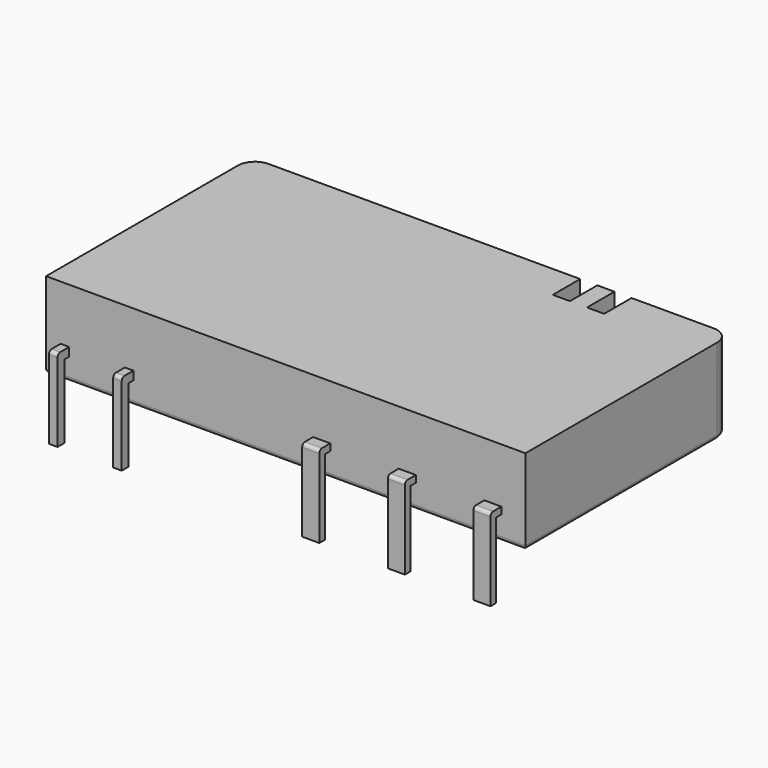
from build123d import *

# Parameters (mm, degrees)
SKETCH003_W    = 0.5
SKETCH003_H    = 0.5
SKETCH003_W_2  = 1
SKETCH003_H_2  = 0.4
PAD002_DEPTH   = 1
SKETCH001_W    = 28
SKETCH001_H    = 5
PAD001_DEPTH   = 15
SKETCH002_W    = 1
SKETCH002_H    = 2
POCKET_DEPTH   = 2
CHAMFER_SIZE   = 1.99
FILLET_R       = 1
FILLET001_R    = 0.25
SKETCH_W       = 0.5
SKETCH_H       = 0.5
SKETCH_W_2     = 1
SKETCH_H_2     = 0.4
PAD_DEPTH      = 1.3
PAD_DEPTH_BACK = 3.5
FILLET003_R    = 0.2


with BuildPart() as pad002:
    # Sketch003 → Pad002 (new body)
    with BuildSketch(Plane(origin=(-3.75, 1, 1.6), x_dir=(1, 0, 0), z_dir=(0, -1, 0))):
        with Locations((0, -0.05)):
            Rectangle(SKETCH003_W, SKETCH003_H)
        with Locations((3.75, -0.05)):
            Rectangle(SKETCH003_W, SKETCH003_H)
        with Locations((15, 0)):
            Rectangle(SKETCH003_W_2, SKETCH003_H_2)
        with Locations((20, 0)):
            Rectangle(SKETCH003_W_2, SKETCH003_H_2)
        with Locations((25, 0)):
            Rectangle(SKETCH003_W_2, SKETCH003_H_2)
    extrude(amount=PAD002_DEPTH)


with BuildPart() as fillet001:
    # Sketch001 → Pad001 (new body)
    with BuildSketch(Plane(origin=(-3.75, 0.6, 1.3), x_dir=(1, 0, 0), z_dir=(0, 1, 0))):
        with Locations((12.9, -1.2)):
            Rectangle(SKETCH001_W, SKETCH001_H)
    extrude(amount=PAD001_DEPTH)

    # Sketch002 → Pocket (cut)
    with BuildSketch(Plane(origin=(-3.75, 15.6, 1.3), x_dir=(1, 0, 0), z_dir=(0, 1, 0))):
        with Locations((18.6, -2.7)):
            Rectangle(SKETCH002_W, SKETCH002_H)
        with Locations((20.6, -2.7)):
            Rectangle(SKETCH002_W, SKETCH002_H)
    extrude(amount=-POCKET_DEPTH, mode=Mode.SUBTRACT)

    # Chamfer
    chamfer_edges = [fillet001.edges().sort_by_distance(p)[0] for p in [
        (16.85, 13.6, 3),
        (14.85, 13.6, 3),
    ]]
    chamfer(chamfer_edges, length=CHAMFER_SIZE)

    # Fillet
    fillet_edges = [fillet001.edges().sort_by_distance(p)[0] for p in [
        (-4.85, 15.6, 2.5),
        (23.15, 15.6, 2.5),
    ]]
    fillet(fillet_edges, radius=FILLET_R)

    # Fillet001
    fillet001_edges = [fillet001.edges().sort_by_distance(p)[0] for p in [
        (-4.85, 7.6, 0),
        (-4.557107, 15.307107, 0),
        (9.15, 0.6, 0),
        (9.15, 15.6, 0),
        (23.15, 7.6, 0),
        (22.857107, 15.307107, 0),
    ]]
    fillet(fillet001_edges, radius=FILLET001_R)


with BuildPart() as obj1:
    # Sketch → Pad (new body, two sides)
    with BuildSketch(Plane(origin=(-3.75, 0, 0.5), x_dir=(1, 0, 0), z_dir=(0, 0, 1))) as pad_sk:
        Rectangle(SKETCH_W, SKETCH_H)
        with Locations((3.75, 0)):
            Rectangle(SKETCH_W, SKETCH_H)
        with Locations((15, 0)):
            Rectangle(SKETCH_W_2, SKETCH_H_2)
        with Locations((20, 0)):
            Rectangle(SKETCH_W_2, SKETCH_H_2)
        with Locations((25, 0)):
            Rectangle(SKETCH_W_2, SKETCH_H_2)
    extrude(amount=PAD_DEPTH)
    extrude(pad_sk.sketch, amount=-PAD_DEPTH_BACK)

    # Fillet003
    fillet003_edges = [obj1.edges().sort_by_distance(p)[0] for p in [
        (-3.75, -0.25, 1.8),
        (0, -0.25, 1.8),
        (11.25, -0.2, 1.8),
        (16.25, -0.2, 1.8),
        (21.25, -0.2, 1.8),
    ]]
    fillet(fillet003_edges, radius=FILLET003_R)

    add(pad002.part)
    add(fillet001.part)


solid = obj1.part
